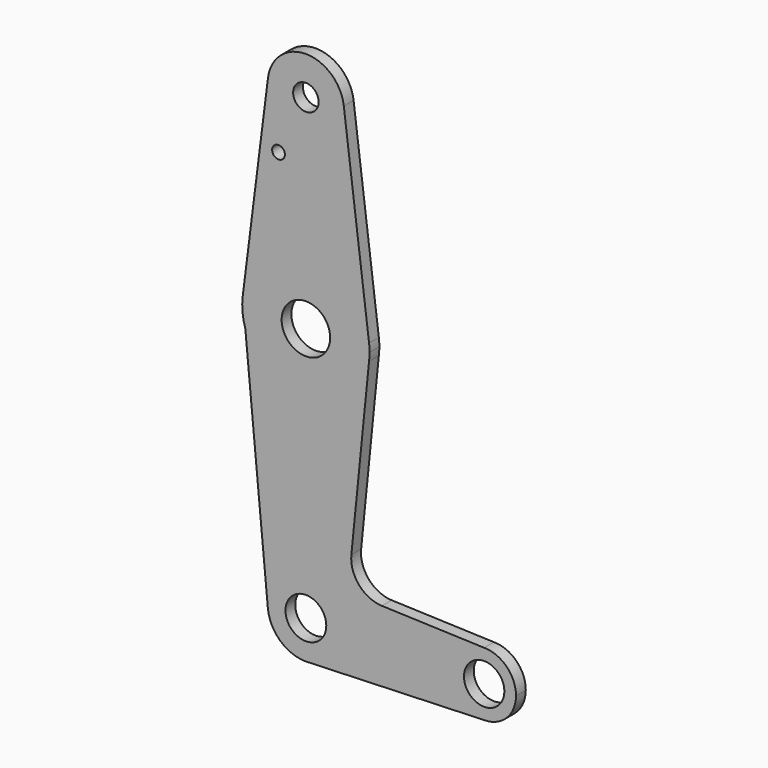
from build123d import *

# Parameters (mm, degrees)
F0_R     = 3.175
F0_R_2   = 1.5875
F0_R_3   = 6.050143
F0_R_4   = 5.085047
F0_R_5   = 5.029505
F1_DEPTH = 3.048


with BuildPart() as f1:
    # F0 (on Front) → F1 (new body)
    with BuildSketch(Plane.XZ):
        with BuildLine():
            ThreePointArc((-27.6431, 58.259068), (-18.78929, 47.562138), (-8.667807, 57.068443))
            ThreePointArc((-8.667807, 57.068443), (-8.686502, 57.664927), (-8.742514, 58.259068))
            ThreePointArc((-8.742514, 58.259068), (-18.192807, 66.593443), (-27.6431, 58.259068))
        make_face()
        with Locations((-18.192807, 57.068443)):
            Circle(F0_R, mode=Mode.SUBTRACT)
        with BuildLine():
            ThreePointArc((-8.742514, 58.259068), (-8.686502, 57.664927), (-8.667807, 57.068443))
            ThreePointArc((-8.667807, 57.068443), (-18.78929, 47.562138), (-27.6431, 58.259068))
            Line((-27.6431, 58.259068), (-33.943295, 8.252818))
            ThreePointArc((-33.943295, 8.252818), (-18.192807, 22.143443), (-2.442319, 8.252818))
            Line((-2.442319, 8.252818), (-8.742514, 58.259068))
        make_face()
        with Locations((-25.015112, 42.793643)):
            Circle(F0_R_2, mode=Mode.SUBTRACT)
        with BuildLine():
            ThreePointArc((-2.317807, 6.268443), (-2.348966, 7.262582), (-2.442319, 8.252818))
            ThreePointArc((-2.442319, 8.252818), (-18.192807, 22.143443), (-33.943295, 8.252818))
            Line((-33.943295, 8.252818), (-33.29351, 1.371057))
            ThreePointArc((-33.29351, 1.371057), (-16.700506, -9.53626), (-2.442319, 4.284068))
            ThreePointArc((-2.442319, 4.284068), (-2.348966, 5.274305), (-2.317807, 6.268443))
        make_face()
        with Locations((-18.192807, 6.268443)):
            Circle(F0_R_3, mode=Mode.SUBTRACT)
        with BuildLine():
            Line((-33.29351, 1.371057), (-33.943295, 8.252818))
            ThreePointArc((-33.943295, 8.252818), (-33.997511, 4.776142), (-33.29351, 1.371057))
        make_face()
        with BuildLine():
            ThreePointArc((-2.442319, 4.284068), (-16.700506, -9.53626), (-33.29351, 1.371057))
            Line((-33.29351, 1.371057), (-27.675629, -58.126937))
            ThreePointArc((-27.675629, -58.126937), (-18.640994, -47.717107), (-8.667807, -57.231557))
            ThreePointArc((-8.667807, -57.231557), (-11.221517, -63.722068), (-17.513317, -66.732289))
            Line((-17.513317, -66.732289), (26.257193, -65.169057))
            ThreePointArc((26.257193, -65.169057), (18.319693, -57.231557), (26.257193, -49.294057))
            Line((26.257193, -49.294057), (0.772915, -48.383904))
            ThreePointArc((0.772915, -48.383904), (-4.933398, -45.66608), (-6.853743, -39.644382))
            Line((-6.853743, -39.644382), (-2.442319, 4.284068))
        make_face()
        with BuildLine():
            ThreePointArc((-8.667807, -57.231557), (-18.640994, -47.717107), (-27.675629, -58.126937))
            ThreePointArc((-27.675629, -58.126937), (-24.603623, -64.276205), (-18.192807, -66.756557))
            Line((-18.192807, -66.756557), (-17.513317, -66.732289))
            ThreePointArc((-17.513317, -66.732289), (-11.221517, -63.722068), (-8.667807, -57.231557))
        make_face()
        with Locations((-18.192807, -57.231557)):
            Circle(F0_R_4, mode=Mode.SUBTRACT)
        with BuildLine():
            Line((-17.513317, -66.732289), (-18.192807, -66.756557))
            ThreePointArc((-18.192807, -66.756557), (-17.852845, -66.750488), (-17.513317, -66.732289))
        make_face()
        with BuildLine():
            ThreePointArc((34.194693, -57.231557), (31.869853, -51.618897), (26.257193, -49.294057))
            ThreePointArc((26.257193, -49.294057), (18.319693, -57.231557), (26.257193, -65.169057))
            ThreePointArc((26.257193, -65.169057), (31.869853, -62.844217), (34.194693, -57.231557))
        make_face()
        with Locations((26.257193, -57.231557)):
            Circle(F0_R_5, mode=Mode.SUBTRACT)
    extrude(amount=F1_DEPTH)


solid = f1.part
